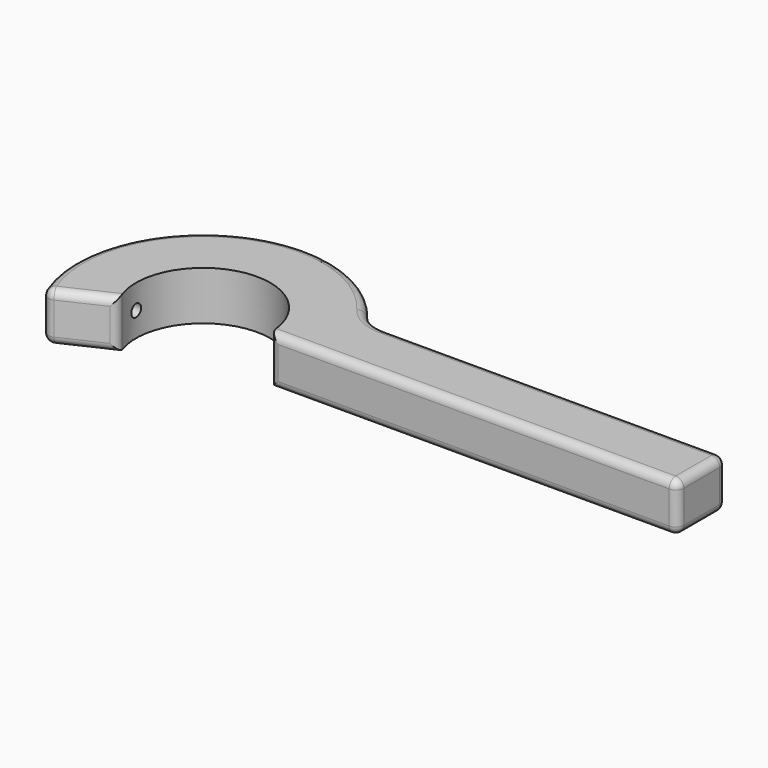
from build123d import *

# Parameters (mm, degrees)
F1_DEPTH = 12
F2_R     = 1.5
F3_DEPTH = 50
F4_R     = 10
F5_R     = 2


with BuildPart() as f1:
    # F0 (on Top) → F1 (new body)
    with BuildSketch(Plane.XY):
        with BuildLine():
            ThreePointArc((-14.954078, -6.973201), (-3.571254, 16.108884), (16.5, 0))
            Line((16.5, 0), (116.5, 0))
            Line((116.5, 0), (116.5, 15))
            Line((116.5, 15), (27.699278, 15))
            ThreePointArc((27.699278, 15), (-14.162607, 28.136641), (-28.548695, -13.312475))
            Line((-28.548695, -13.312475), (-14.954078, -6.973201))
        make_face()
    extrude(amount=F1_DEPTH)

    # F2 (on Right) → F3 (cut)
    with BuildSketch(Plane.YZ):
        with Locations((0, 6)):
            Circle(F2_R)
    extrude(amount=-F3_DEPTH, mode=Mode.SUBTRACT)

    # F4
    f4_edges = [f1.edges().sort_by_distance(p)[0] for p in [
        (27.699278, 15, 6),
    ]]
    fillet(f4_edges, radius=F4_R)

    # F5
    f5_edges = [f1.edges().sort_by_distance(p)[0] for p in [
        (-16.233753, 26.994727, 12),
        (74.812382, 15, 12),
        (66.5, 0, 12),
        (116.5, 7.5, 12),
        (66.5, 0, 0),
        (116.5, 0, 6),
        (-16.233753, 26.994727, 0),
        (-28.548695, -13.312475, 6),
        (74.812382, 15, 0),
        (116.5, 7.5, 0),
        (116.5, 15, 6),
        (-21.751387, -10.142838, 0),
        (-21.751387, -10.142838, 12),
        (-14.954078, -6.973201, 6),
        (16.5, 0, 6),
    ]]
    fillet(f5_edges, radius=F5_R)


solid = f1.part
